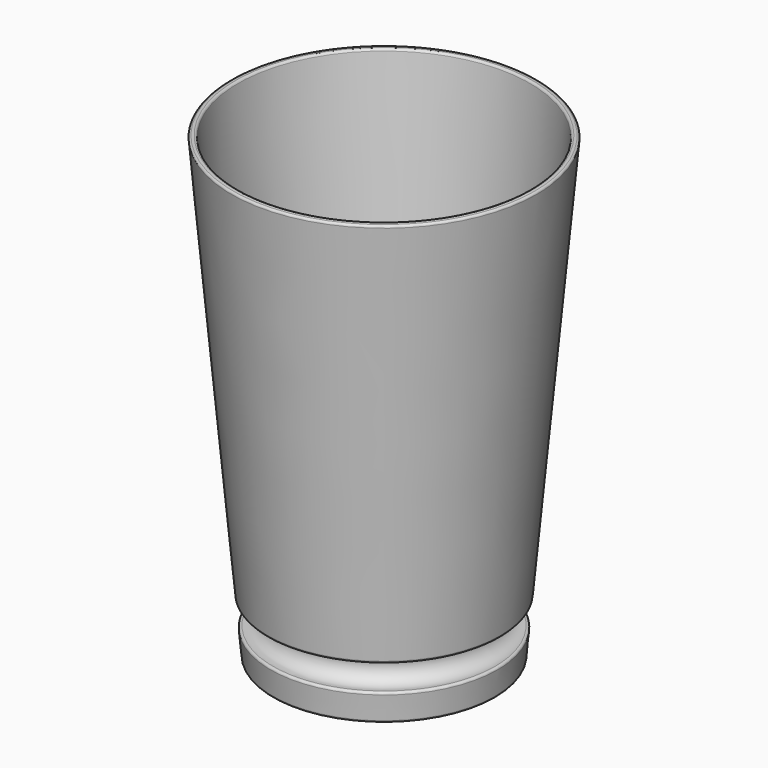
from build123d import *

# Parameters (mm, degrees)
F3_R = 0.5


with BuildPart() as f2:
    # F0 (on Front) → F2 (revolve)
    with BuildSketch(Plane.XZ):
        with BuildLine():
            Line((25.45108, 5.021019), (24.994367, 0))
            Line((24.994367, 0), (26.600972, 0))
            Line((26.600972, 0), (27.225674, 6.867857))
            ThreePointArc((27.225674, 6.867857), (22.51799, 10.308456), (27.769192, 12.843191))
            Line((27.769192, 12.843191), (36.593429, 109.855143))
            Line((36.593429, 109.855143), (35, 110))
            Line((35, 110), (26.88111, 20.74249))
            Line((26.88111, 20.74249), (0, 20.74249))
            Line((0, 20.74249), (0, 19.54249))
            Line((0, 19.54249), (26.771958, 19.54249))
            Line((26.771958, 19.54249), (26.356944, 14.979905))
            ThreePointArc((26.356944, 14.979905), (20.924569, 10.453394), (25.45108, 5.021019))
        make_face()
    revolve(axis=Axis((0, 0, 55.309514), (0, 0, -1)))

    # F3
    f3_edges = [f2.edges().sort_by_distance(p)[0] for p in [
        (-27.769192, 0, 12.843191),
        (-27.225674, 0, 6.867857),
        (-26.600972, 0, 0),
        (-24.994367, 0, 0),
        (-36.593429, 0, 109.855143),
        (-35, 0, 110),
    ]]
    fillet(f3_edges, radius=F3_R)


solid = f2.part
